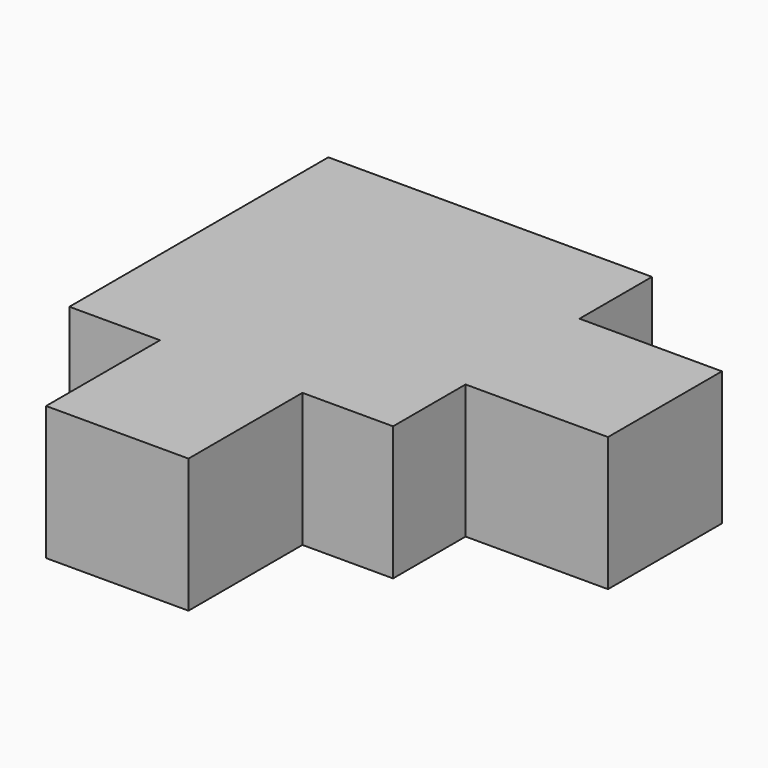
from build123d import *

# Parameters (mm, degrees)
F0_W     = 11
F0_H     = 11
F1_DEPTH = 10.344


with BuildPart() as f1:
    # F0 (on Top) → F1 (new body)
    with BuildSketch(Plane.XY):
        with Locations((-23.5, 16.414466)):
            Rectangle(F0_W, F0_H)
        with Locations((-5.5, 34.414466)):
            Rectangle(F0_W, F0_H)
        Polygon((-11, 46.914466), (-36, 46.914466), (-36, 21.914466), (-29, 21.914466), (-18, 21.914466), (-11, 21.914466), (-11, 28.914466), (-11, 39.914466), align=None)
    extrude(amount=F1_DEPTH)


solid = f1.part
